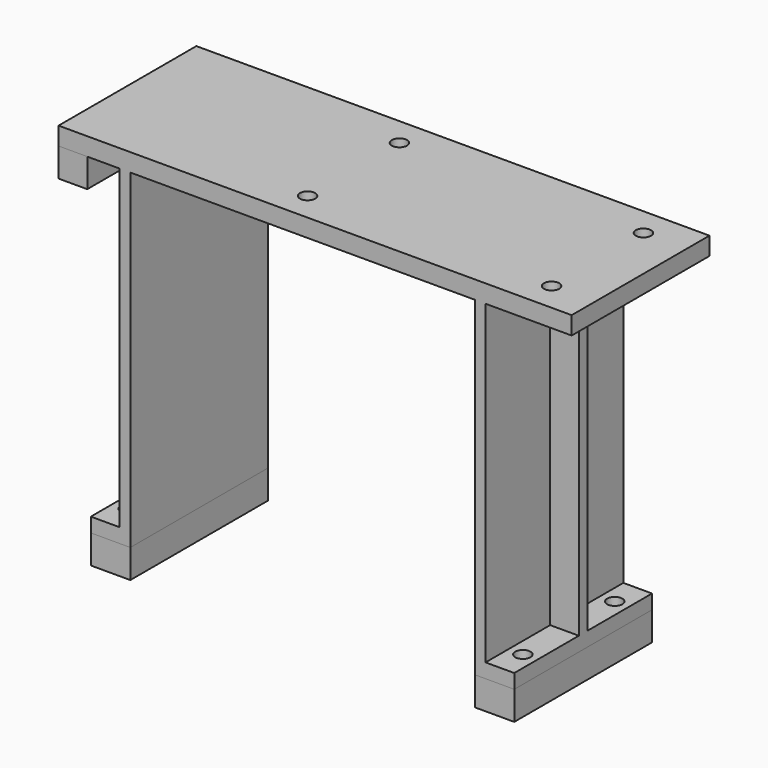
from build123d import *

# Parameters (mm, degrees)
F0_W      = 454.025
F0_H      = 152.4
F0_R      = 6.731
F1_DEPTH  = 15.875
F2_W      = 25.4
F2_H      = 152.4
F3_DEPTH  = 25.4
F6_W      = 152.4
F6_H      = 292.1
F7_DEPTH  = 9.525
F8_W      = 34.925
F8_H      = 152.4
F9_DEPTH  = 12.7
F11_D     = 13.49248
F11_DEPTH = 25.4
F11_TIP   = 4.0535499425
F13_W     = 9.525
F13_H     = 279.4
F14_DEPTH = 25.4
F16_W     = 34.925
F16_H     = 152.4
F16_R     = 6.74624
F17_DEPTH = 25.4


with BuildPart() as f1:
    # F0 (on Top) → F1 (new body)
    with BuildSketch(Plane.XY):
        with Locations((11.1125, 0)):
            Rectangle(F0_W, F0_H)
        with Locations((-15.875, -50.8)):
            Circle(F0_R, mode=Mode.SUBTRACT)
        with Locations((200.025, -50.8)):
            Circle(F0_R, mode=Mode.SUBTRACT)
        with Locations((-15.875, 50.8)):
            Circle(F0_R, mode=Mode.SUBTRACT)
        with Locations((200.025, 50.8)):
            Circle(F0_R, mode=Mode.SUBTRACT)
    extrude(amount=F1_DEPTH)

    # F12: F7 across plane


with BuildPart() as f3:
    # F2 (on face) → F3 (new body)
    with BuildSketch(Plane(origin=(0, 0, 0), x_dir=(1, 0, 0), z_dir=(0, 0, -1))):
        with Locations((-203.2, 0)):
            Rectangle(F2_W, F2_H)
    extrude(amount=F3_DEPTH)


with BuildPart() as f7:
    # F6 (on offset) → F7 (new body)
    with BuildSketch(Plane.YZ.offset(152.4)):
        with Locations((0, -146.05)):
            Rectangle(F6_W, F6_H)
    extrude(amount=F7_DEPTH)

    # F8 (on offset) → F9 (join)
    with BuildSketch(Plane(origin=(0, 0, -292.1), x_dir=(1, 0, 0), z_dir=(0, 0, -1))):
        with Locations((169.8625, 0)):
            Rectangle(F8_W, F8_H)
    extrude(amount=-F9_DEPTH)

    # F11
    with Locations(Plane(origin=(0, 0, -292.1), x_dir=(1, 0, 0), z_dir=(0, 0, -1))):
        with Locations((174.625, 50.8), (174.625, -50.8)):
            Hole(F11_D / 2, depth=F11_DEPTH)
            with Locations((0, 0, -(F11_DEPTH + F11_TIP / 2))):  # 118° drill point
                Cone(0, F11_D / 2, F11_TIP, mode=Mode.SUBTRACT)


with BuildPart() as f1_1:
    add(f1.part)
    add(f7.part.mirror(Plane.YZ))



with BuildPart() as f14:
    # F13 (on face) → F14 (new body)
    with BuildSketch(Plane(origin=(-161.925, 0, 0), x_dir=(0, -1, 0), z_dir=(-1, 0, 0))):
        with Locations((0, -139.7)):
            Rectangle(F13_W, F13_H)
    extrude(amount=F14_DEPTH)


with BuildPart() as f1_2:
    add(f1_1.part)

    add(f7.part)  # F15 merges F7

    add(f14.part)  # F15 merges F14
    # F15: F14 across plane
    add(f14.part.mirror(Plane.YZ))


with BuildPart() as f17:
    # F16 (on face) → F17 (new body)
    with BuildSketch(Plane(origin=(0, 0, -292.1), x_dir=(1, 0, 0), z_dir=(0, 0, -1))):
        with Locations((-169.8625, 0)):
            Rectangle(F16_W, F16_H)
        with Locations((-174.625, -50.8)):
            Circle(F16_R, mode=Mode.SUBTRACT)
        with Locations((-174.625, 50.8)):
            Circle(F16_R, mode=Mode.SUBTRACT)
    extrude(amount=F17_DEPTH)


with BuildPart() as f17b:
    # F16 (on face) → F17, piece 2 (new body)
    with BuildSketch(Plane(origin=(0, 0, -292.1), x_dir=(1, 0, 0), z_dir=(0, 0, -1))):
        with Locations((169.8625, 0)):
            Rectangle(F16_W, F16_H)
        with Locations((174.625, -50.8)):
            Circle(F16_R, mode=Mode.SUBTRACT)
        with Locations((174.625, 50.8)):
            Circle(F16_R, mode=Mode.SUBTRACT)
    extrude(amount=F17_DEPTH)


solid = Compound([f3.part, f1_2.part, f17.part, f17b.part])
